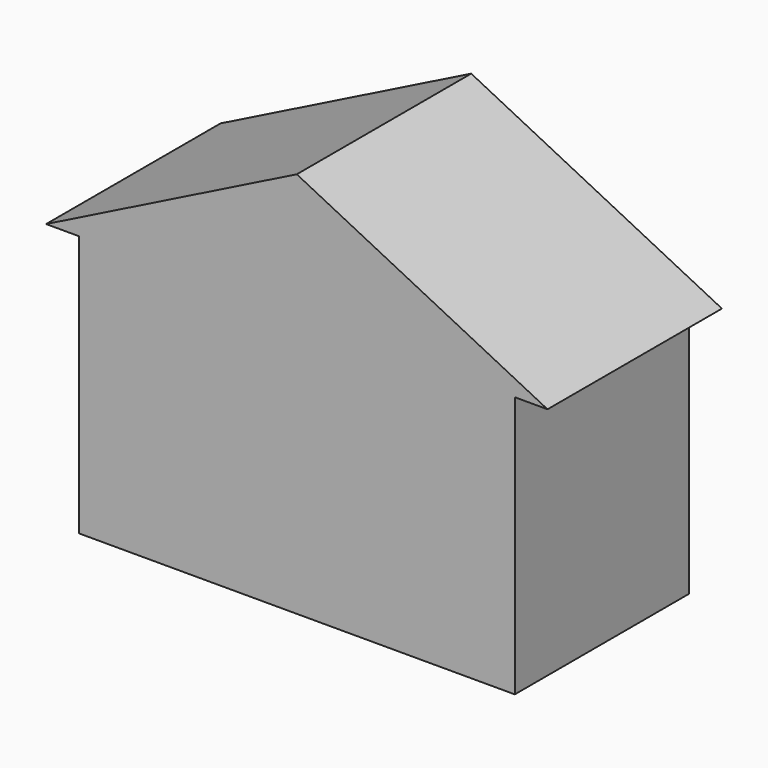
from build123d import *

# Parameters (mm, degrees)
F0_W     = 228.6
F0_H     = 127
F0_W_2   = 304.8
F0_H_2   = 177.8
F0_W_3   = 254
F0_W_4   = 177.8
F0_H_3   = 76.2
F1_DEPTH = 508


with BuildPart() as f1:
    # F0 (on Front) → F1 (new body)
    with BuildSketch(Plane.XZ):
        Polygon((508, 0), (0, 0), (-508, 0), (-508, -211.7188125849), (-508, -234.4794422388), (-508, -609.6), (-38.1, -609.6), (-38.1, -431.8), (38.1, -431.8), (38.1, -609.6), (508, -609.6), align=None)
        with Locations((-342.9, -469.9)):
            Rectangle(F0_W, F0_H, mode=Mode.SUBTRACT)
        with Locations((342.9, -469.9)):
            Rectangle(F0_W, F0_H, mode=Mode.SUBTRACT)
        with Locations((-228.6, -165.1)):
            Rectangle(F0_W_2, F0_H_2, mode=Mode.SUBTRACT)
        with Locations((228.6, -165.1)):
            Rectangle(F0_W_2, F0_H_2, mode=Mode.SUBTRACT)
        Polygon((-508, 0), (0, 0), (508, 0), (0, 254), align=None)
        with Locations((-228.6, -165.1)):
            Rectangle(F0_W_2, F0_H_2)
        with Locations((-228.6, -165.1)):
            Rectangle(F0_W_3, F0_H, mode=Mode.SUBTRACT)
        with Locations((228.6, -165.1)):
            Rectangle(F0_W_2, F0_H_2)
        with Locations((228.6, -165.1)):
            Rectangle(F0_W_3, F0_H, mode=Mode.SUBTRACT)
        with Locations((-228.6, -165.1)):
            Rectangle(F0_W_3, F0_H)
        with Locations((228.6, -165.1)):
            Rectangle(F0_W_3, F0_H)
        with Locations((-342.9, -469.9)):
            Rectangle(F0_W, F0_H)
        with Locations((-342.9, -469.9)):
            Rectangle(F0_W_4, F0_H_3, mode=Mode.SUBTRACT)
        with Locations((342.9, -469.9)):
            Rectangle(F0_W, F0_H)
        with Locations((342.9, -469.9)):
            Rectangle(F0_W_4, F0_H_3, mode=Mode.SUBTRACT)
        Polygon((0, 254), (508, 0), (584.2, 0), (0, 292.1), align=None)
        Polygon((-584.2, 0), (-508, 0), (0, 254), (0, 292.1), align=None)
        with Locations((-342.9, -469.9)):
            Rectangle(F0_W_4, F0_H_3)
        with Locations((342.9, -469.9)):
            Rectangle(F0_W_4, F0_H_3)
        Polygon((0, -609.6), (38.1, -609.6), (38.1, -431.8), (-38.1, -431.8), (-38.1, -609.6), align=None)
    extrude(amount=F1_DEPTH)


solid = f1.part
